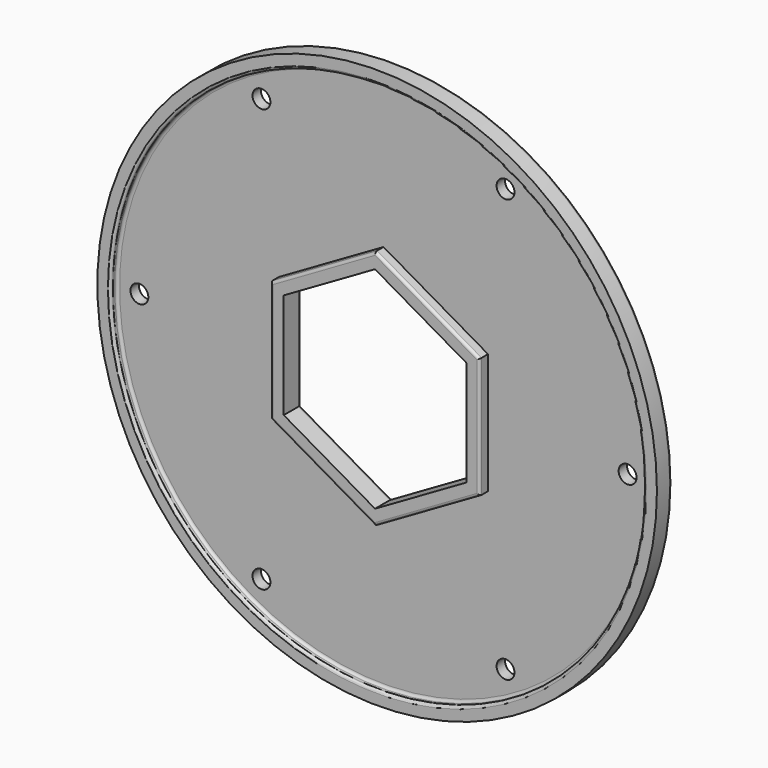
from build123d import *

# Parameters (mm, degrees)
F0_R     = 100.75
F1_DEPTH = 4
F2_DEPTH = 4
F3_DEPTH = 8
F0_R_2   = 105.75
F4_DEPTH = 7
F6_R     = 1
F7_R     = 1
F8_D     = 6.7564
F9_R     = 1


with BuildPart() as f1:
    # F0 (on Front) → F1 (new body)
    with BuildSketch(Plane.XZ):
        Circle(F0_R)
        Polygon((80.5, 46.4766966698), (80.5, -46.4766966698), (0, -92.9533933395), (-80.5, -46.4766966698), (-80.5, 46.4766966698), (0, 92.9533933395), align=None, mode=Mode.SUBTRACT)
    extrude(amount=F1_DEPTH)

    # F0 (on Front) → F4 (join)
    with BuildSketch(Plane.XZ):
        Circle(F0_R_2)
        Circle(F0_R, mode=Mode.SUBTRACT)
    extrude(amount=F4_DEPTH)


with BuildPart() as f1b:
    # F0 (on Front) → F1, piece 2 (new body)
    with BuildSketch(Plane.XZ):
        Polygon((77.5, -44.7446458622), (77.5, 44.7446458622), (0, 89.4892917244), (-77.5, 44.7446458622), (-77.5, -44.7446458622), (0, -89.4892917244), align=None)
        Polygon((39.5, 22.805335633), (39.5, -22.805335633), (0, -45.610671266), (-39.5, -22.805335633), (-39.5, 22.805335633), (0, 45.610671266), align=None, mode=Mode.SUBTRACT)
    extrude(amount=F1_DEPTH)

    # F0 (on Front) → F3 (join)
    with BuildSketch(Plane.XZ):
        Polygon((0, -45.610671266), (39.5, -22.805335633), (39.5, 22.805335633), (0, 45.610671266), (-39.5, 22.805335633), (-39.5, -22.805335633), align=None)
        Polygon((34.5, 19.918584287), (34.5, -19.918584287), (0, -39.8371685741), (-34.5, -19.918584287), (-34.5, 19.918584287), (0, 39.8371685741), align=None, mode=Mode.SUBTRACT)
    extrude(amount=F3_DEPTH)


with BuildPart() as f2:
    # F0 (on Front) → F2 (new body)
    with BuildSketch(Plane.XZ):
        Polygon((0, -92.9533933395), (80.5, -46.4766966698), (80.5, 46.4766966698), (0, 92.9533933395), (-80.5, 46.4766966698), (-80.5, -46.4766966698), align=None)
        Polygon((0, 89.4892917244), (77.5, 44.7446458622), (77.5, -44.7446458622), (0, -89.4892917244), (-77.5, -44.7446458622), (-77.5, 44.7446458622), align=None, mode=Mode.SUBTRACT)
    extrude(amount=F2_DEPTH)


with BuildPart() as f1_1:
    add(f1.part)

    # F5: union F1b, F2
    add(f1b.part)
    add(f2.part)

    # F6
    f6_edges = [f1_1.edges().sort_by_distance(p)[0] for p in [
        (19.75, -8, 34.208003),
        (39.5, -8, 0),
        (19.75, -8, -34.208003),
        (-19.75, -8, -34.208003),
        (-39.5, -8, 0),
        (-19.75, -8, 34.208003),
    ]]
    fillet(f6_edges, radius=F6_R)

    # F7
    f7_edges = [f1_1.edges().sort_by_distance(p)[0] for p in [
        (-100.75, -4, 0),
        (-105.75, 0, 0),
        (-17.25, 0, 29.877876),
        (17.25, 0, 29.877876),
        (34.5, 0, 0),
        (17.25, 0, -29.877876),
        (-17.25, 0, -29.877876),
        (-34.5, 0, 0),
    ]]
    fillet(f7_edges, radius=F7_R)

    # F8 (through all)
    with Locations(Plane(origin=(0, 0, 0), x_dir=(1, 0, 0), z_dir=(0, 1, 0))):
        with Locations((-46.125, -79.8908434991), (46.125, -79.8908434991), (92.25, 0), (46.125, 79.8908434991), (-46.125, 79.8908434991), (-92.25, 0)):
            Hole(F8_D / 2)

    # F9
    f9_edges = [f1_1.edges().sort_by_distance(p)[0] for p in [
        (-100.75, -7, 0),
    ]]
    fillet(f9_edges, radius=F9_R)


solid = f1_1.part
